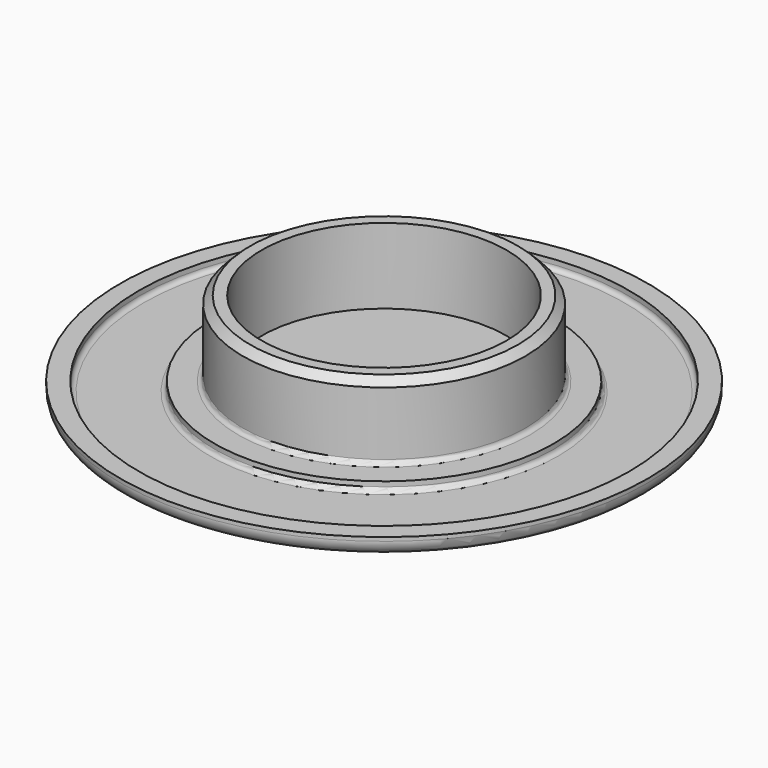
from build123d import *

# Parameters (mm, degrees)
F1_R      = 47.625
F2_DEPTH  = 25.4
F0_R      = 88.9
F2_FACE_R = 47.625
F3_DEPTH  = 6.35
F4_R      = 5.08
F5_SIZE   = 2.54
F6_R      = 82.55
F6_R_2    = 57.15
F8_DEPTH  = 3.175
F7_R      = 41.275
F9_DEPTH  = 25.4
F10_R     = 1.524


with BuildPart() as f2:
    # F1 (on Top) → F2 (new body)
    with BuildSketch(Plane.XY):
        Circle(F1_R)
    extrude(amount=F2_DEPTH)

    # F0 (on Top) + F2_face (on face) → F3 (join)
    with BuildSketch(Plane.XY):
        Circle(F0_R)
    with BuildSketch(Plane.XY.offset(25.4)):
        Circle(F2_FACE_R)
    extrude(amount=-F3_DEPTH)

    # F4
    f4_edges = [f2.edges().sort_by_distance(p)[0] for p in [
        (-88.9, 0, -6.35),
    ]]
    fillet(f4_edges, radius=F4_R)

    # F5
    f5_edges = [f2.edges().sort_by_distance(p)[0] for p in [
        (-47.625, 0, 25.4),
    ]]
    chamfer(f5_edges, length=F5_SIZE)

    # F6 (on Top) → F8 (cut)
    with BuildSketch(Plane.XY):
        Circle(F6_R)
        Circle(F6_R_2, mode=Mode.SUBTRACT)
    extrude(amount=-F8_DEPTH, mode=Mode.SUBTRACT)

    # F7 (on Top) → F9 (cut)
    with BuildSketch(Plane.XY):
        Circle(F7_R)
    extrude(amount=F9_DEPTH, mode=Mode.SUBTRACT)

    # F10
    f10_edges = [f2.edges().sort_by_distance(p)[0] for p in [
        (-82.55, 0, -3.175),
        (-57.15, 0, -3.175),
        (-47.625, 0, 0),
    ]]
    fillet(f10_edges, radius=F10_R)


solid = f2.part
